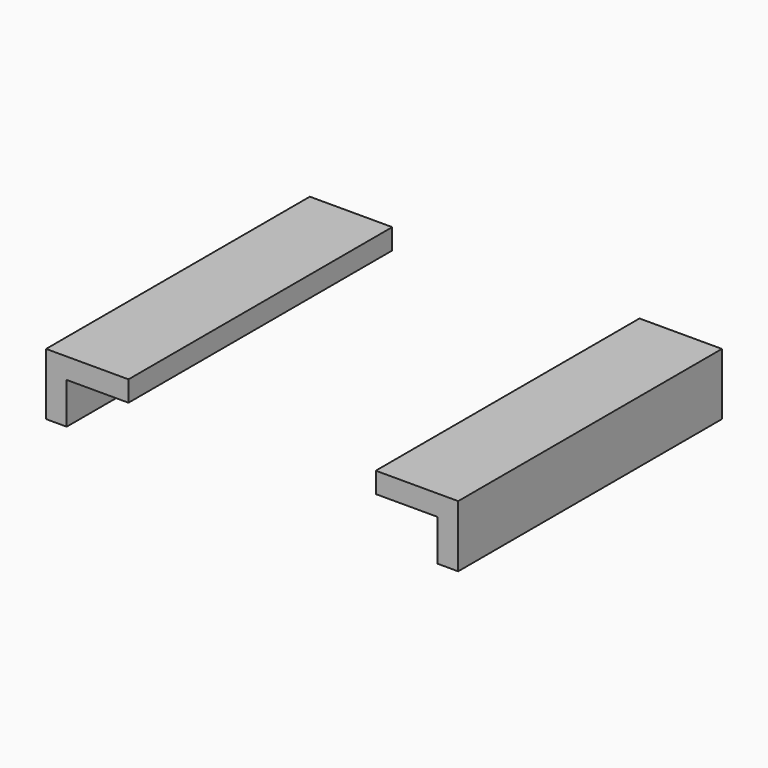
from build123d import *

# Parameters (mm, degrees)
F1_DEPTH = 800


with BuildPart() as f1:
    # F0 (on Front) → F1 (new body)
    with BuildSketch(Plane.XZ):
        Polygon((0, 150), (0, 0), (50, 0), (50, 100), (200, 100), (200, 150), align=None)
    extrude(amount=F1_DEPTH)


with BuildPart() as f3_1:
    # F3: instance of F1
    add(f1.part.mirror(Plane(origin=(500, -400, 125), x_dir=(0, 1, 0), z_dir=(1, 0, 0))))


solid = Compound([f1.part, f3_1.part])
